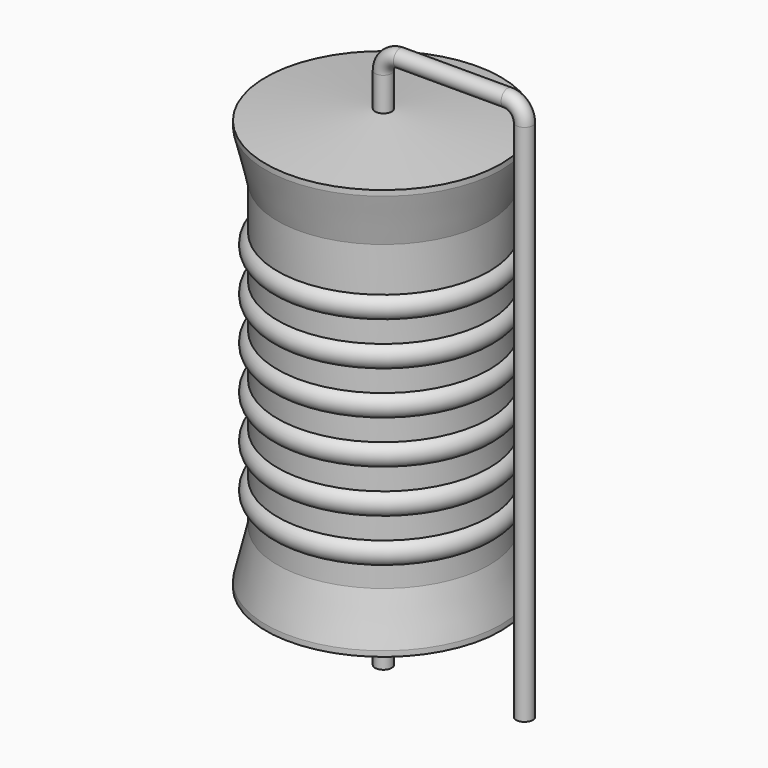
from build123d import *

# Parameters (mm, degrees)
SKETCH_R = 0.45


with BuildPart() as revolution:
    # Sketch002 → Revolution (revolve)
    with BuildSketch(Plane.XZ):
        Polygon((0, 0.1), (0, 23.47), (0.3375, 23.47), (6.35, 22.88575), (6.35, 22.59325), (5.715, 19.9645), (5.715, 3.6055), (6.35, 0.97675), (6.35, 0.68425), (0.3375, 0.1), align=None)
    revolve(axis=Axis((0, 0, 0), (0, 0, 1)))


with BuildPart() as sweep_body:
    # Sweep: sweep along a path in Sketch001
    with BuildLine(Plane.XZ) as sweep_path:
        Line((0, -3), (0, 25.27))
        ThreePointArc((0, 25.27), (0.263601, 25.906393), (0.899991, 26.17))
        Line((0.899991, 26.17), (6.72, 26.17))
        ThreePointArc((6.72, 26.17), (7.356396, 25.906396), (7.62, 25.27))
        Line((7.62, 25.27), (7.62, -3))
    # Sketch → Sweep (sweep)
    with BuildSketch(Plane.XY.offset(-2)):
        Circle(SKETCH_R)
    sweep(path=sweep_path.line)


with BuildPart() as obj1:
    # Sketch003 → Revolution001 (revolve)
    with BuildSketch(Plane.XZ):
        with BuildLine():
            Line((5.08, 18.6945), (5.08, 3.6055))
            Line((5.08, 3.6055), (5.461, 3.6055))
            Line((5.461, 3.6055), (5.461, 4.6725))
            ThreePointArc((5.461, 4.6725), (6.096, 5.3075), (5.461, 5.9425))
            Line((5.461, 5.9425), (5.461, 7.0095))
            ThreePointArc((5.461, 7.0095), (6.096, 7.6445), (5.461, 8.2795))
            Line((5.461, 8.2795), (5.461, 9.3465))
            ThreePointArc((5.461, 9.3465), (6.096, 9.9815), (5.461, 10.6165))
            Line((5.461, 10.6165), (5.461, 11.6835))
            ThreePointArc((5.461, 11.6835), (6.096, 12.3185), (5.461, 12.9535))
            Line((5.461, 12.9535), (5.461, 14.0205))
            ThreePointArc((5.461, 14.0205), (6.096, 14.6555), (5.461, 15.2905))
            Line((5.461, 15.2905), (5.461, 16.3575))
            ThreePointArc((5.461, 16.3575), (6.096, 16.9925), (5.461, 17.6275))
            Line((5.461, 18.6945), (5.461, 17.6275))
            Line((5.08, 18.6945), (5.461, 18.6945))
        make_face()
    revolve(axis=Axis((0, 0, 0), (0, 0, 1)))

    # obj1: union Revolution, Sweep body
    add(revolution.part)
    add(sweep_body.part)


solid = obj1.part
